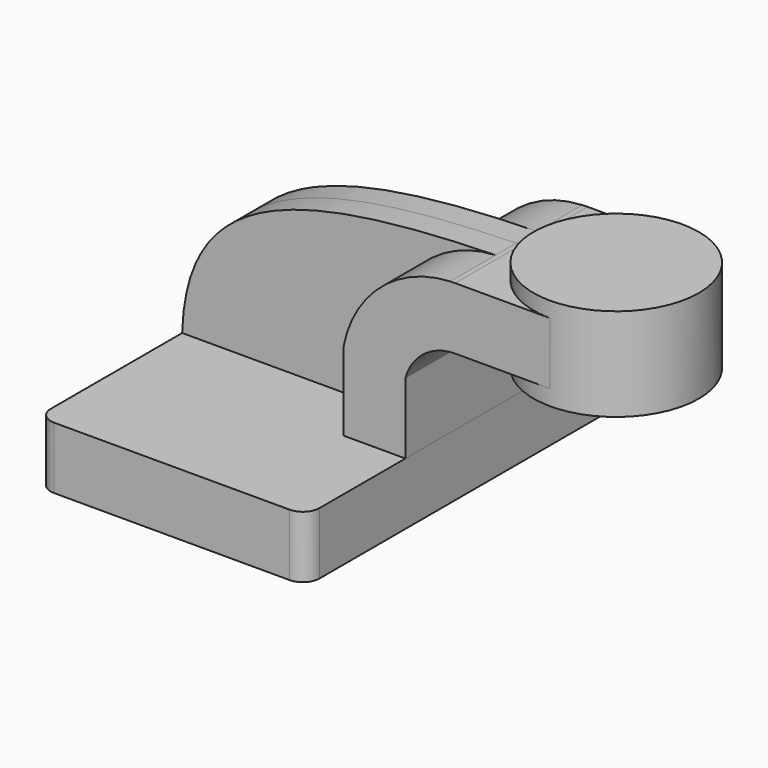
from build123d import *

# Parameters (mm, degrees)
F1_DEPTH = 63.5
F0_W     = 25.4
F0_H     = 19.05
F2_DEPTH = 25.4
F3_DEPTH = 7.9375
F5_R     = 5.08


with BuildPart() as f1:
    # F0 (on Front) → F1 (new body, symmetric)
    with BuildSketch(Plane.XZ):
        Polygon((-41.275, 9.525), (-41.275, -9.525), (41.275, -9.525), (41.275, 9.525), (22.225, 9.525), align=None)
    extrude(amount=F1_DEPTH, both=True)

    # F5
    f5_edges = [f1.edges().sort_by_distance(p)[0] for p in [
        (-41.275, -63.5, 0),
        (41.275, -63.5, 0),
        (41.275, 63.5, 0),
        (-41.275, 63.5, 0),
    ]]
    fillet(f5_edges, radius=F5_R)


with BuildPart() as f2:
    # F0 (on Front) → F2 (new body, symmetric)
    with BuildSketch(Plane.XZ):
        with BuildLine():
            Line((22.225, 9.525), (41.275, 9.525))
            Line((41.275, 9.525), (41.275, 31.2928673412))
            ThreePointArc((41.275, 31.2928673412), (46.9703447865, 39.6525064902), (56.5586066456, 42.8752))
            Line((56.5586066456, 42.8752), (60.325, 42.8752))
            Line((60.325, 42.8752), (60.325, 61.9252))
            Line((60.325, 61.9252), (56.5586066456, 61.9252))
            add(Edge.make_bspline(
                [(55.0403231536, 61.8921824636), (55.5443471878, 61.9037807853), (56.0504409694, 61.9147836618), (56.5586066456, 61.9252)],
                knots=[110.1222919293, 110.1222919293, 110.1222919293, 110.1222919293, 110.9828615117, 110.9828615117, 110.9828615117, 110.9828615117], degree=3))
            ThreePointArc((55.0403231536, 61.8921824636), (33.6612531511, 53.3719050633), (22.225, 33.4001281016))
            Line((22.225, 33.4001281016), (22.225, 9.525))
        make_face()
        with Locations((73.025, 52.4002)):
            Rectangle(F0_W, F0_H)
    extrude(amount=F2_DEPTH, both=True)

    # F0 (on Front) → F4 (revolve)
    with BuildSketch(Plane.XZ):
        Polygon((85.725, 66.675), (85.725, 61.9252), (85.725, 42.8752), (85.725, 38.1), (111.125, 38.1), (111.125, 66.675), align=None)
    revolve(axis=Axis((85.725, 0, 52.3875), (0, 0, 1)))


with BuildPart() as f3:
    # F0 (on Front) → F3 (new body, symmetric)
    with BuildSketch(Plane.XZ):
        with BuildLine():
            add(Edge.make_bspline(
                [(-41.275, 9.525), (-40.0620750899, 49.1734854267), (-9.4568226537, 60.4080098956), (55.0403231536, 61.8921824636)],
                knots=[0, 0, 0, 0, 110.1222919293, 110.1222919293, 110.1222919293, 110.1222919293], degree=3))
            Line((-41.275, 9.525), (22.225, 9.525))
            Line((22.225, 9.525), (22.225, 33.4001281016))
            ThreePointArc((22.225, 33.4001281016), (33.6612531511, 53.3719050633), (55.0403231536, 61.8921824636))
        make_face()
    extrude(amount=F3_DEPTH, both=True)


solid = Compound([f1.part, f2.part, f3.part])
